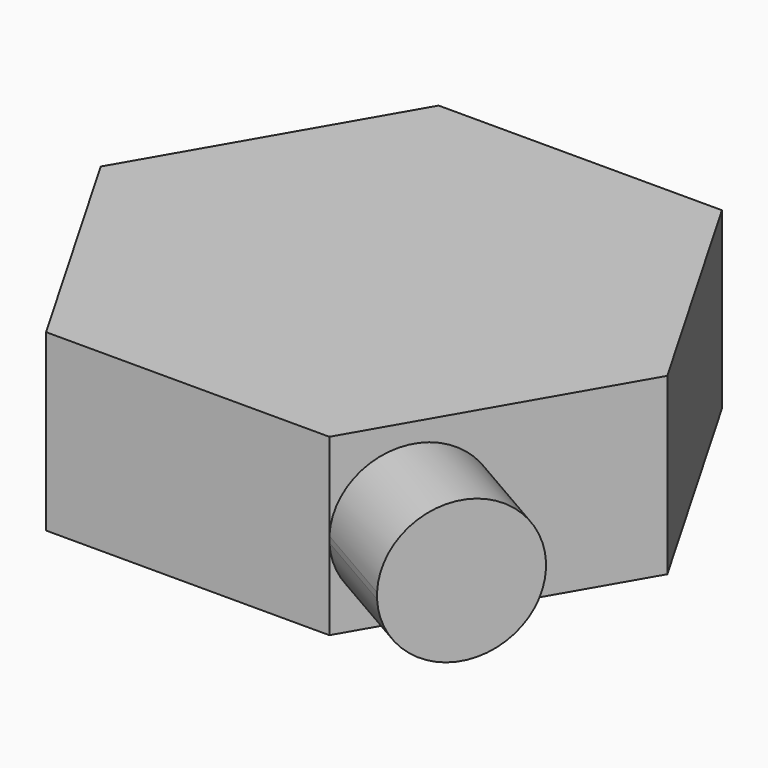
from build123d import *

# Parameters (mm, degrees)
F1_DEPTH = 10.414
F3_DEPTH = 6.096


with BuildPart() as f1:
    # F0 (on Top) → F1 (new body)
    with BuildSketch(Plane.XY):
        Polygon((8.4440271959, 14.6254841238), (-8.4440271959, 14.6254841238), (-16.8880543918, 0), (-8.4440271959, -14.6254841238), (8.4440271959, -14.6254841238), (16.8880543918, 0), align=None)
    extrude(amount=F1_DEPTH)

    # F2 (on face) → F3 (join)
    with BuildSketch(Plane(origin=(12.6660407939, -7.3127420619, 0), x_dir=(0.5, 0.8660254038, 0), z_dir=(0.8660254038, -0.5, 0))):
        with BuildLine():
            ThreePointArc((0, 5.207), (-4.222013598, 9.2538613826), (-8.4440271959, 5.207))
            Line((-8.4440271959, 5.207), (-8.4440271959, 4.8491148059))
            ThreePointArc((-8.4440271959, 4.8491148059), (-4.222013598, 0.8022534233), (0, 4.8491148059))
            Line((0, 4.8491148059), (0, 4.8693496503))
            ThreePointArc((0, 4.8693496503), (-0.0033740483, 5.0381748251), (0, 5.207))
        make_face()
    extrude(amount=F3_DEPTH)


solid = f1.part
